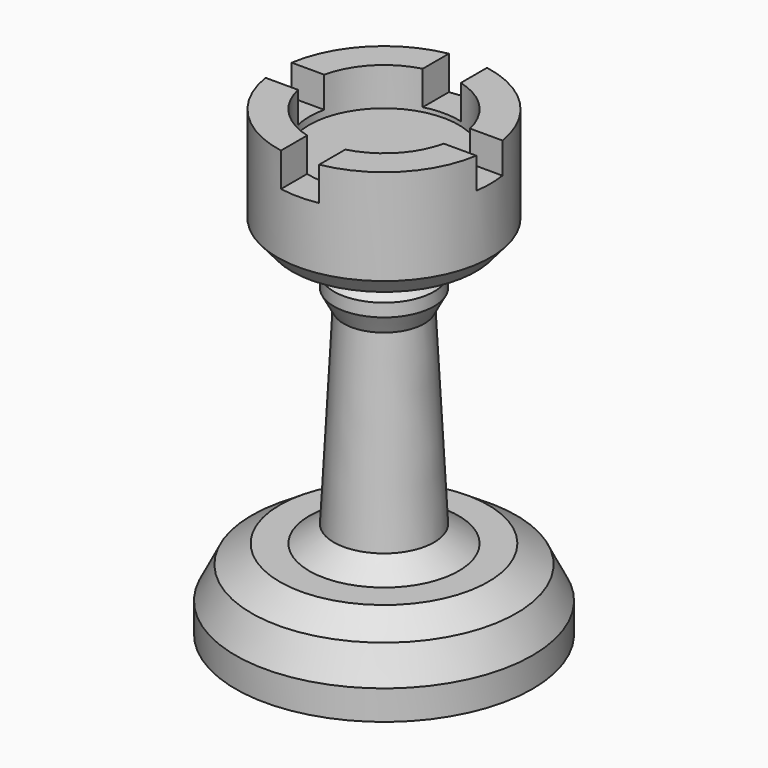
from build123d import *

# Parameters (mm, degrees)
F2_W          = 7.7063473873
F2_H          = 14.5060643554
F3_DEPTH      = 29.9826746265
F3_DEPTH_BACK = 25.4
F4_W          = 6.6132526845
F4_H          = 12.692797929
F5_DEPTH      = 29.9826746265
F5_DEPTH_BACK = 25.4


with BuildPart() as f1:
    # F0 (on Front) → F1 (revolve)
    with BuildSketch(Plane.XZ):
        Polygon((0, -61.5766718984), (0, 24.0749828517), (-15.0857353583, 24.0749828517), (-15.0857353583, 31.7712202668), (-21.5406417847, 31.7712202668), (-21.5406417847, 12.4064972624), (-18.5614544898, 8.9307781309), (-10.120421648, 6.6963867284), (-8.1342970952, 4.2137298733), (-10.120421648, 2.6248309761), (-10.120421648, 0), (-8.1342970952, -3.7307715975), (-10.120421648, -41.9636853039), (-15.0857353583, -45.4394035041), (-21.0441108793, -45.4394035041), (-26.7542209476, -49.163389951), (-29.9816746265, -55.6182973087), (-29.9816746265, -61.5766718984), align=None)
    revolve(axis=Axis((0, 0, -18.7508445233), (0, 0, 1)))

    # F2 (on Front) → F3 (cut, two sides)
    with BuildSketch(Plane.XZ) as f3_sk:
        with Locations((0, 32.1853272617)):
            Rectangle(F2_W, F2_H)
    extrude(amount=-F3_DEPTH, mode=Mode.SUBTRACT)
    extrude(f3_sk.sketch, amount=F3_DEPTH_BACK, mode=Mode.SUBTRACT)

    # F4 (on Right) → F5 (cut, two sides)
    with BuildSketch(Plane.YZ) as f5_sk:
        with Locations((0, 31.875140965)):
            Rectangle(F4_W, F4_H)
    extrude(amount=F5_DEPTH, mode=Mode.SUBTRACT)
    extrude(f5_sk.sketch, amount=-F5_DEPTH_BACK, mode=Mode.SUBTRACT)


solid = f1.part
